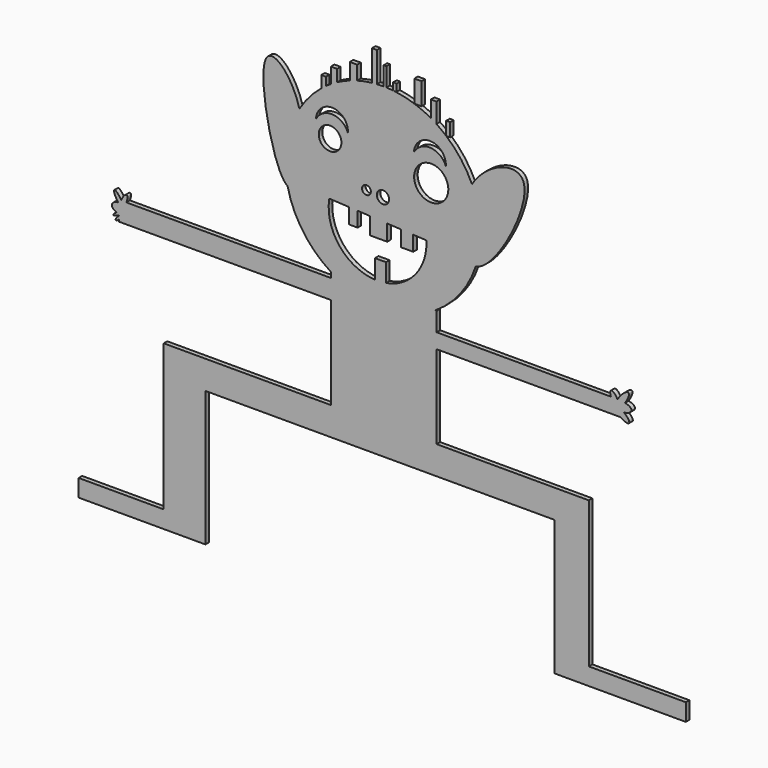
from build123d import *

# Parameters (mm, degrees)
F0_R     = 25.22024081
F0_R_2   = 64.9297534819
F0_R_3   = 35.2626258189
F0_R_4   = 98.1338947202
F0_W     = 718.9698568713
F0_H     = 162.5799824413
F0_W_2   = 675.9906542173
F0_W_3   = 239.5916902773
F0_W_4   = 196.807428836
F0_H_2   = 675.9906852519
F0_H_3   = 99.3998650116
F0_W_5   = 487.7401335319
F0_W_6   = 556.1947780439
F1_DEPTH = 25.4
F0_W_7   = 20.363200712
F0_H_4   = 41.5725999435
F0_W_8   = 42.2370003612
F0_H_5   = 126.7080586466
F0_W_9   = 22.9711555591
F0_H_6   = 76.650179515


with BuildPart() as f1:
    # F0 (on Front) → F1 (new body)
    with BuildSketch(Plane.XZ):
        with BuildLine():
            ThreePointArc((430.4256800329, 1909.5991843785), (451.3898625277, 1995.9795026506), (458.4369827022, 2084.5875972567))
            ThreePointArc((458.4369827022, 2084.5875972567), (445.7884721768, 2202.9987936454), (408.4137160484, 2316.0665779744))
            add(Edge.make_bspline(
                [(430.4256800329, 1909.5991843785), (337.6444111974, 1901.9020594196), (313.6273281249, 2159.4088523347), (408.4137160484, 2316.0665779744)],
                knots=[0.6750465292, 0.6750465292, 0.6750465292, 0.6750465292, 1, 1, 1, 1], degree=3))
        make_face()
        with BuildLine():
            ThreePointArc((408.4137160484, 2316.0665779744), (445.7884721768, 2202.9987936454), (458.4369827022, 2084.5875972567))
            ThreePointArc((458.4369827022, 2084.5875972567), (451.3898625277, 1995.9795026506), (430.4256800329, 1909.5991843785))
            add(Edge.make_bspline(
                [(408.4137160484, 2316.0665779744), (491.7249949642, 2453.7588749487), (905.5507371265, 2595.0564403031), (541.6172104012, 1918.8236228278), (430.4256800329, 1909.5991843785)],
                knots=[0, 0, 0, 0, 0.2856136818, 0.6750465292, 0.6750465292, 0.6750465292, 0.6750465292], degree=3))
        make_face()
        with BuildLine():
            add(Edge.make_bspline(
                [(430.4256800329, 1909.5991843785), (337.6444111974, 1901.9020594196), (313.6273281249, 2159.4088523347), (408.4137160484, 2316.0665779744)],
                knots=[0.6750465292, 0.6750465292, 0.6750465292, 0.6750465292, 1, 1, 1, 1], degree=3))
            ThreePointArc((408.4137160484, 2316.0665779744), (345.2916944926, 2422.3061698473), (260.4264262109, 2512.1344879106))
            ThreePointArc((260.4264262109, 2512.1344879106), (233.1697986481, 2533.82993129), (204.6182171506, 2553.7904724528))
            Line((204.6182171506, 2553.7904724528), (204.6182171506, 2552.4249535164))
            Line((204.6182171506, 2552.4249535164), (172.2985335228, 2552.4249535164))
            Line((172.2985335228, 2552.4249535164), (172.2985335228, 2573.3985211503))
            ThreePointArc((172.2985335228, 2573.3985211503), (125.8983291088, 2596.6931854825), (77.5419851971, 2615.5951525632))
            ThreePointArc((77.5419851971, 2615.5951525632), (17.5084977636, 2632.2555176585), (-44.0029683651, 2642.1513204675))
            ThreePointArc((-44.0029683651, 2642.1513204675), (-63.0883017128, 2643.8125876796), (-82.2192543581, 2644.820758609))
            Line((-82.2192543581, 2644.820758609), (-82.2192543581, 2606.9645243803))
            Line((-82.2192543581, 2606.9645243803), (-98.3791116894, 2606.9645243803))
            Line((-98.3791116894, 2606.9645243803), (-98.3791116894, 2645.1625074731))
            ThreePointArc((-98.3791116894, 2645.1625074731), (-117.5779975113, 2644.9628733469), (-136.7587864287, 2644.1058977952))
            Line((-136.7587864287, 2644.1058977952), (-136.7587864287, 2641.6326134129))
            Line((-136.7587864287, 2641.6326134129), (-165.0736164975, 2641.6326134129))
            ThreePointArc((-165.0736164975, 2641.6326134129), (-207.7894850671, 2635.1317673601), (-249.8777877474, 2625.3603189231))
            Line((-249.8777877474, 2625.3603189231), (-249.8777877474, 2532.2251124557))
            Line((-249.8777877474, 2532.2251124557), (-292.2974229402, 2532.2251124557))
            Line((-292.2974229402, 2532.2251124557), (-292.2974229402, 2611.9419804363))
            ThreePointArc((-292.2974229402, 2611.9419804363), (-329.2292217989, 2597.1241913941), (-365.0167886894, 2579.7237691263))
            Line((-365.0167886894, 2579.7237691263), (-365.0167886894, 2516.0652396071))
            Line((-365.0167886894, 2516.0652396071), (-401.376471564, 2516.0652396071))
            Line((-401.376471564, 2516.0652396071), (-401.376471564, 2558.6364773259))
            ThreePointArc((-401.376471564, 2558.6364773259), (-415.6614964535, 2549.3126569736), (-429.6562180144, 2539.5585127012))
            Line((-429.6562180144, 2539.5585127012), (-429.6562180144, 2489.8054462282))
            Line((-429.6562180144, 2489.8054462282), (-455.9159803586, 2489.8054462282))
            Line((-455.9159803586, 2489.8054462282), (-455.9159803586, 2519.4536917679))
            ThreePointArc((-455.9159803586, 2519.4536917679), (-524.8608118035, 2452.7920830247), (-581.4345098454, 2375.3545175086))
            add(Edge.make_bspline(
                [(-649.7281822072, 1964.515695458), (-583.959381164, 1930.7588335611), (-530.8833730731, 2187.8653938505), (-581.4345098454, 2375.3545175086)],
                knots=[0.6696778985, 0.6696778985, 0.6696778985, 0.6696778985, 1, 1, 1, 1], degree=3))
            ThreePointArc((-649.7281822072, 1964.515695458), (-561.0790819625, 1762.6510879873), (-401.4451387737, 1610.5820677843))
            Line((-401.4451387737, 1610.5820677843), (197.1439096648, 1610.5820677843))
            ThreePointArc((197.1439096648, 1610.5820677843), (339.8392878184, 1739.7639025974), (430.4256800329, 1909.5991843785))
        make_face()
        with BuildLine():
            ThreePointArc((-148.1524683767, 1653.237166098), (-351.4219119124, 1757.1276335724), (-410.1595292996, 1977.7213510964))
            Line((-410.1595292996, 1977.7213510964), (-297.8907957684, 1971.7151906134))
            Line((-297.8907957684, 1971.7151906134), (-297.8907957684, 1883.7186000835))
            Line((-297.8907957684, 1883.7186000835), (-247.3743146358, 1883.7186000835))
            Line((-247.3743146358, 1883.7186000835), (-247.3743146358, 1969.0126564066))
            Line((-247.3743146358, 1969.0126564066), (-176.1103264689, 1965.2001706314))
            Line((-176.1103264689, 1965.2001706314), (-176.1103264689, 1867.6693347718))
            Line((-176.1103264689, 1867.6693347718), (-77.7108334344, 1867.6693347718))
            Line((-77.7108334344, 1867.6693347718), (-77.7108334344, 1959.9359877371))
            Line((-77.7108334344, 1959.9359877371), (0, 1955.7786081872))
            Line((0, 1955.7786081872), (0, 1865.3766180526))
            Line((0, 1865.3766180526), (71.3178791887, 1865.3766180526))
            Line((71.3178791887, 1865.3766180526), (71.3178791887, 1951.9632393463))
            Line((71.3178791887, 1951.9632393463), (146.9785938599, 1947.915537192))
            ThreePointArc((146.9785938599, 1947.915537192), (86.2913241715, 1758.6271545004), (-84.5890922134, 1657.0746074108))
            Line((-84.5890922134, 1657.0746074108), (-84.5890922134, 1762.2028760242))
            Line((-84.5890922134, 1762.2028760242), (-148.1524683767, 1762.2028760242))
            Line((-148.1524683767, 1762.2028760242), (-148.1524683767, 1653.237166098))
        make_face(mode=Mode.SUBTRACT)
        with Locations((-196.9338174986, 2090.0660841402)):
            Circle(F0_R, mode=Mode.SUBTRACT)
        with Locations((-405.5740337918, 2282.6570196044)):
            Circle(F0_R_2, mode=Mode.SUBTRACT)
        with BuildLine():
            ThreePointArc((-486.5942597389, 2354.7642230988), (-390.0763596826, 2442.0453926146), (-303.3040444597, 2345.0697622007))
            ThreePointArc((-303.3040444597, 2345.0697622007), (-391.8536683348, 2408.4423600268), (-486.5942597389, 2354.7642230988))
        make_face(mode=Mode.SUBTRACT)
        with Locations((-102.1506145545, 2084.5875972567)):
            Circle(F0_R_3, mode=Mode.SUBTRACT)
        with Locations((174.4916134584, 2245.9730555424)):
            Circle(F0_R_4, mode=Mode.SUBTRACT)
        with BuildLine():
            ThreePointArc((75.0362518785, 2369.0948433087), (171.5541519348, 2456.3760128245), (258.3264671578, 2359.4003824106))
            ThreePointArc((258.3264671578, 2359.4003824106), (169.7768432826, 2422.7729802367), (75.0362518785, 2369.0948433087))
        make_face(mode=Mode.SUBTRACT)
        with BuildLine():
            Line((205.8957745455, 1610.5820677843), (197.1439096648, 1610.5820677843))
            ThreePointArc((197.1439096648, 1610.5820677843), (-102.1506145544, 1524), (-401.4451387737, 1610.5820677843))
            Line((-401.4451387737, 1610.5820677843), (-401.4451387737, 1579.7338336314))
            Line((-401.4451387737, 1579.7338336314), (-401.4451387737, 1468.4949276781))
            Line((-401.4451387737, 1468.4949276781), (-401.4451387737, 937.9705327048))
            Line((-401.4451387737, 937.9705327048), (-401.4451387737, 775.3905502635))
            Line((-401.4451387737, 775.3905502635), (205.8957745455, 775.3905502635))
            Line((205.8957745455, 775.3905502635), (205.8957745455, 937.9705327048))
            Line((205.8957745455, 937.9705327048), (205.8957745455, 1417.1537891208))
            Line((205.8957745455, 1417.1537891208), (205.8957745455, 1502.7223120034))
            Line((205.8957745455, 1502.7223120034), (205.8957745455, 1610.5820677843))
        make_face()
        with BuildLine():
            ThreePointArc((-401.4451387737, 1610.5820677843), (-102.1506145544, 1524), (197.1439096648, 1610.5820677843))
            Line((197.1439096648, 1610.5820677843), (-401.4451387737, 1610.5820677843))
        make_face()
        with BuildLine():
            Line((204.6182171506, 2552.4249535164), (204.6182171506, 2553.7904724528))
            ThreePointArc((204.6182171506, 2553.7904724528), (188.6237032575, 2563.8670045955), (172.2985335228, 2573.3985211503))
            Line((172.2985335228, 2573.3985211503), (172.2985335228, 2552.4249535164))
            Line((172.2985335228, 2552.4249535164), (204.6182171506, 2552.4249535164))
        make_face()
        with BuildLine():
            ThreePointArc((172.2985335228, 2573.3985211503), (188.6237032575, 2563.8670045955), (204.6182171506, 2553.7904724528))
            Line((204.6182171506, 2553.7904724528), (204.6182171506, 2667.5640475624))
            Line((204.6182171506, 2667.5640475624), (172.2985335228, 2667.5640475624))
            Line((172.2985335228, 2667.5640475624), (172.2985335228, 2573.3985211503))
        make_face()
        with BuildLine():
            add(Edge.make_bspline(
                [(-581.4345098454, 2375.3545175086), (-622.297156562, 2526.9099980064), (-894.6052710051, 2792.9272091619), (-729.9007029104, 2005.6654908986), (-649.7281822072, 1964.515695458)],
                knots=[0, 0, 0, 0, 0.2670134877, 0.6696778985, 0.6696778985, 0.6696778985, 0.6696778985], degree=3))
            ThreePointArc((-649.7281822072, 1964.515695458), (-655.1499368377, 2176.5125870709), (-581.4345098454, 2375.3545175086))
        make_face()
        with BuildLine():
            ThreePointArc((-581.4345098454, 2375.3545175086), (-655.1499368377, 2176.5125870709), (-649.7281822072, 1964.515695458))
            add(Edge.make_bspline(
                [(-649.7281822072, 1964.515695458), (-583.959381164, 1930.7588335611), (-530.8833730731, 2187.8653938505), (-581.4345098454, 2375.3545175086)],
                knots=[0.6696778985, 0.6696778985, 0.6696778985, 0.6696778985, 1, 1, 1, 1], degree=3))
        make_face()
        Polygon((-401.4451387737, 1468.4949276781), (-401.4451387737, 1579.7338336314), (-1574.2255633989, 1579.7338336314), (-1601.9737946635, 1579.7338336314), (-1604.8034244856, 1579.7338336314), (-1616.7120062929, 1579.7338336314), (-1616.7120062929, 1563.9612725524), (-1616.7120062929, 1558.1356935338), (-1616.7120062929, 1519.0132735809), (-1616.7120062929, 1509.7229429933), (-1616.7120062929, 1500.4326124056), (-1616.7120062929, 1498.1212648294), (-1616.7120062929, 1479.2060819724), (-1616.7120062929, 1468.4949276781), align=None)
        with BuildLine():
            Line((1206.0226577477, 1502.7223120034), (205.8957745455, 1502.7223120034))
            Line((205.8957745455, 1502.7223120034), (205.8957745455, 1417.1537891208))
            Line((205.8957745455, 1417.1537891208), (1260.5873070085, 1417.1537891208))
            Line((1260.5873070085, 1417.1537891208), (1266.9444093187, 1417.1537891208))
            Line((1266.9444093187, 1417.1537891208), (1266.9444093187, 1502.7223120034))
            Line((1266.9444093187, 1502.7223120034), (1243.6978244071, 1502.7223120034))
            add(Edge.make_bspline(
                [(1243.6978244071, 1502.7223120034), (1243.0963781352, 1501.7835188199), (1242.5094594622, 1500.8452975247)],
                knots=[1.7833055874, 1.7833055874, 1.7833055874, 1.8182121997, 1.8182121997, 1.8182121997], degree=2, weights=[1, 0.9998476949, 1]))
            add(Edge.make_bspline(
                [(1242.5094594622, 1500.8452975247), (1242.1188179881, 1501.7830068249), (1241.6971546455, 1502.7223120034)],
                knots=[4.4005560354, 4.4005560354, 4.4005560354, 4.4588566372, 4.4588566372, 4.4588566372], degree=2, weights=[1, 0.9995751601, 1]))
            Line((1241.6971546455, 1502.7223120034), (1206.0226577477, 1502.7223120034))
        make_face()
        with BuildLine():
            Line((-1601.9737946635, 1579.7338336314), (-1574.2255633989, 1579.7338336314))
            add(Edge.make_bspline(
                [(-1574.2255633989, 1579.7338336314), (-1559.0834928694, 1616.7001153747), (-1573.2675547935, 1618.0422626335), (-1587.4516167175, 1619.3844098922), (-1603.6236582872, 1582.5155877353)],
                knots=[4.8690161245, 4.8690161245, 4.8690161245, 6.4034971324, 6.4034971324, 7.9379781403, 7.9379781403, 7.9379781403], degree=2, weights=[1, 0.7198289162, 1, 0.7198289162, 1]))
            add(Edge.make_bspline(
                [(-1601.9737946635, 1579.7338336314), (-1602.7828186628, 1581.126300949), (-1603.6236582872, 1582.5155877353)],
                knots=[4.5467996095, 4.5467996095, 4.5467996095, 4.6144009071, 4.6144009071, 4.6144009071], degree=2, weights=[1, 0.9994288125, 1]))
        make_face()
        with BuildLine():
            add(Edge.make_bspline(
                [(1241.6971546455, 1502.7223120034), (1227.23610661, 1534.9360141017), (1209.3988581612, 1534.9360141017), (1191.5616097123, 1534.9360141017), (1206.0226577477, 1502.7223120034)],
                knots=[4.4588566372, 4.4588566372, 4.4588566372, 6.0296529639, 6.0296529639, 7.6004492907, 7.6004492907, 7.6004492907], degree=2, weights=[1, 0.7071067812, 1, 0.7071067812, 1]))
            Line((1206.0226577477, 1502.7223120034), (1241.6971546455, 1502.7223120034))
        make_face()
        with BuildLine():
            Line((-455.9159803586, 2586.7646833196), (-455.9159803586, 2519.4536917679))
            ThreePointArc((-455.9159803586, 2519.4536917679), (-442.9343940198, 2529.6997964282), (-429.6562180144, 2539.5585127012))
            Line((-429.6562180144, 2539.5585127012), (-429.6562180144, 2586.7646833196))
            Line((-429.6562180144, 2586.7646833196), (-455.9159803586, 2586.7646833196))
        make_face()
        with BuildLine():
            ThreePointArc((-429.6562180144, 2539.5585127012), (-442.9343940198, 2529.6997964282), (-455.9159803586, 2519.4536917679))
            Line((-455.9159803586, 2519.4536917679), (-455.9159803586, 2489.8054462282))
            Line((-455.9159803586, 2489.8054462282), (-429.6562180144, 2489.8054462282))
            Line((-429.6562180144, 2489.8054462282), (-429.6562180144, 2539.5585127012))
        make_face()
        with Locations((-760.9300672093, 856.6805414842)):
            Rectangle(F0_W, F0_H)
        with BuildLine():
            Line((-1604.8034244856, 1579.7338336314), (-1601.9737946635, 1579.7338336314))
            add(Edge.make_bspline(
                [(-1601.9737946635, 1579.7338336314), (-1602.7828186628, 1581.126300949), (-1603.6236582872, 1582.5155877353)],
                knots=[4.5467996095, 4.5467996095, 4.5467996095, 4.6144009071, 4.6144009071, 4.6144009071], degree=2, weights=[1, 0.9994288125, 1]))
            add(Edge.make_bspline(
                [(-1603.6236582872, 1582.5155877353), (-1604.2329435814, 1581.1265465892), (-1604.8034244856, 1579.7338336314)],
                knots=[1.6547928332, 1.6547928332, 1.6547928332, 1.7274234709, 1.7274234709, 1.7274234709], degree=2, weights=[1, 0.9993406713, 1]))
        make_face()
        with BuildLine():
            add(Edge.make_bspline(
                [(-1603.6236582872, 1582.5155877353), (-1604.2329435814, 1581.1265465892), (-1604.8034244856, 1579.7338336314)],
                knots=[1.6547928332, 1.6547928332, 1.6547928332, 1.7274234709, 1.7274234709, 1.7274234709], degree=2, weights=[1, 0.9993406713, 1]))
            add(Edge.make_bspline(
                [(-1603.6236582872, 1582.5155877353), (-1632.873023414, 1630.8431823197), (-1643.3609477132, 1619.8375669974), (-1653.8488720125, 1608.8319516752), (-1621.2243422194, 1564.0461221633)],
                knots=[4.6144009071, 4.6144009071, 4.6144009071, 6.3468069762, 6.3468069762, 8.0792130452, 8.0792130452, 8.0792130452], degree=2, weights=[1, 0.6477240226, 1, 0.6477240226, 1]))
            add(Edge.make_bspline(
                [(-1616.7120062929, 1563.9612725524), (-1618.9752737577, 1564.0891669462), (-1621.2243422194, 1564.0461221633)],
                knots=[4.7808416276, 4.7808416276, 4.7808416276, 4.8929152212, 4.8929152212, 4.8929152212], degree=2, weights=[1, 0.9984303495, 1]))
            Line((-1616.7120062929, 1563.9612725524), (-1616.7120062929, 1579.7338336314))
            Line((-1616.7120062929, 1579.7338336314), (-1604.8034244856, 1579.7338336314))
        make_face()
        with Locations((543.8911016541, 856.6805414842)):
            Rectangle(F0_W_2, F0_H)
        with BuildLine():
            Line((1266.9444093187, 1417.1537891208), (1260.5873070085, 1417.1537891208))
            add(Edge.make_bspline(
                [(1260.5873070085, 1417.1537891208), (1300.5362932255, 1389.1287171637), (1309.6456980894, 1402.9746111912), (1318.7551029533, 1416.8205052186), (1280.2988486319, 1447.1144638862)],
                knots=[4.8163796118, 4.8163796118, 4.8163796118, 6.3051504315, 6.3051504315, 7.7939212513, 7.7939212513, 7.7939212513], degree=2, weights=[1, 0.7355044383, 1, 0.7355044383, 1]))
            add(Edge.make_bspline(
                [(1280.2988486319, 1447.1144638862), (1457.0234176186, 1467.4187719595), (1286.5740065961, 1497.2639328928)],
                knots=[4.952807612, 4.952807612, 4.952807612, 7.4964157504, 7.4964157504, 7.4964157504], degree=2, weights=[1, 0.2945573237, 1]))
            add(Edge.make_bspline(
                [(1286.5740065961, 1497.2639328928), (1325.1235253677, 1553.5609442483), (1302.5378628227, 1556.4362261027), (1279.9522002777, 1559.3115079572), (1243.6978244071, 1502.7223120034)],
                knots=[4.8232350031, 4.8232350031, 4.8232350031, 6.4448629488, 6.4448629488, 8.0664908945, 8.0664908945, 8.0664908945], degree=2, weights=[1, 0.6889086545, 1, 0.6889086545, 1]))
            Line((1243.6978244071, 1502.7223120034), (1266.9444093187, 1502.7223120034))
            Line((1266.9444093187, 1502.7223120034), (1266.9444093187, 1417.1537891208))
        make_face()
        with BuildLine():
            Line((1243.6978244071, 1502.7223120034), (1241.6971546455, 1502.7223120034))
            add(Edge.make_bspline(
                [(1242.5094594622, 1500.8452975247), (1242.1188179881, 1501.7830068249), (1241.6971546455, 1502.7223120034)],
                knots=[4.4005560354, 4.4005560354, 4.4005560354, 4.4588566372, 4.4588566372, 4.4588566372], degree=2, weights=[1, 0.9995751601, 1]))
            add(Edge.make_bspline(
                [(1243.6978244071, 1502.7223120034), (1243.0963781352, 1501.7835188199), (1242.5094594622, 1500.8452975247)],
                knots=[1.7833055874, 1.7833055874, 1.7833055874, 1.8182121997, 1.8182121997, 1.8182121997], degree=2, weights=[1, 0.9998476949, 1]))
        make_face()
        with BuildLine():
            Line((-82.2192543581, 2606.9645243803), (-82.2192543581, 2644.820758609))
            ThreePointArc((-82.2192543581, 2644.820758609), (-90.2979512504, 2645.0498783878), (-98.3791116894, 2645.1625074731))
            Line((-98.3791116894, 2645.1625074731), (-98.3791116894, 2606.9645243803))
            Line((-98.3791116894, 2606.9645243803), (-82.2192543581, 2606.9645243803))
        make_face()
        with BuildLine():
            ThreePointArc((-98.3791116894, 2645.1625074731), (-90.2979512504, 2645.0498783878), (-82.2192543581, 2644.820758609))
            Line((-82.2192543581, 2644.820758609), (-82.2192543581, 2752.4031317401))
            Line((-82.2192543581, 2752.4031317401), (-98.3791116894, 2752.4031317401))
            Line((-98.3791116894, 2752.4031317401), (-98.3791116894, 2645.1625074731))
        make_face()
        with Locations((-1240.2108407836, 856.6805414842)):
            Rectangle(F0_W_3, F0_H)
        with BuildLine():
            add(Edge.make_bspline(
                [(-1616.7120062929, 1498.1212648294), (-1635.5857568432, 1482.132314303), (-1635.5857568432, 1472.6747228745), (-1635.5857568432, 1463.217131446), (-1616.7120062929, 1479.2060819724)],
                knots=[4.4500048298, 4.4500048298, 4.4500048298, 6.0208011566, 6.0208011566, 7.5915974834, 7.5915974834, 7.5915974834], degree=2, weights=[1, 0.7071067812, 1, 0.7071067812, 1]))
            Line((-1616.7120062929, 1479.2060819724), (-1616.7120062929, 1498.1212648294))
        make_face()
        with BuildLine():
            add(Edge.make_bspline(
                [(-1616.7120062929, 1563.9612725524), (-1618.9752737577, 1564.0891669462), (-1621.2243422194, 1564.0461221633)],
                knots=[4.7808416276, 4.7808416276, 4.7808416276, 4.8929152212, 4.8929152212, 4.8929152212], degree=2, weights=[1, 0.9984303495, 1]))
            add(Edge.make_bspline(
                [(-1621.2243422194, 1564.0461221633), (-1618.9829083107, 1560.9691589847), (-1616.7120062929, 1558.1356935338)],
                knots=[1.796027738, 1.796027738, 1.796027738, 1.9573011178, 1.9573011178, 1.9573011178], degree=2, weights=[1, 0.9967506234, 1]))
            Line((-1616.7120062929, 1558.1356935338), (-1616.7120062929, 1563.9612725524))
        make_face()
        with BuildLine():
            add(Edge.make_bspline(
                [(-1621.2243422194, 1564.0461221633), (-1618.9829083107, 1560.9691589847), (-1616.7120062929, 1558.1356935338)],
                knots=[1.796027738, 1.796027738, 1.796027738, 1.9573011178, 1.9573011178, 1.9573011178], degree=2, weights=[1, 0.9967506234, 1]))
            add(Edge.make_bspline(
                [(-1621.2243422194, 1564.0461221633), (-1653.5242185563, 1563.427936818), (-1656.8472652905, 1541.8826462887), (-1660.1703120248, 1520.3373557594), (-1629.2850392208, 1511.7838241417)],
                knots=[4.8929152212, 4.8929152212, 4.8929152212, 6.2492233595, 6.2492233595, 7.6055314978, 7.6055314978, 7.6055314978], degree=2, weights=[1, 0.7787321018, 1, 0.7787321018, 1]))
            add(Edge.make_bspline(
                [(-1616.7120062929, 1519.0132735809), (-1623.2658503137, 1515.6398980821), (-1629.2850392208, 1511.7838241417)],
                knots=[4.5874894474, 4.5874894474, 4.5874894474, 4.9942149685, 4.9942149685, 4.9942149685], degree=2, weights=[1, 0.9793929603, 1]))
            Line((-1616.7120062929, 1519.0132735809), (-1616.7120062929, 1558.1356935338))
        make_face()
        with Locations((980.2901431807, 856.6805414842)):
            Rectangle(F0_W_4, F0_H)
        with BuildLine():
            Line((-401.376471564, 2647.3642065017), (-401.376471564, 2558.6364773259))
            ThreePointArc((-401.376471564, 2558.6364773259), (-383.3943368629, 2569.5210183158), (-365.0167886894, 2579.7237691263))
            Line((-365.0167886894, 2579.7237691263), (-365.0167886894, 2647.3642065017))
            Line((-365.0167886894, 2647.3642065017), (-401.376471564, 2647.3642065017))
        make_face()
        with BuildLine():
            ThreePointArc((-365.0167886894, 2579.7237691263), (-383.3943368629, 2569.5210183158), (-401.376471564, 2558.6364773259))
            Line((-401.376471564, 2558.6364773259), (-401.376471564, 2516.0652396071))
            Line((-401.376471564, 2516.0652396071), (-365.0167886894, 2516.0652396071))
            Line((-365.0167886894, 2516.0652396071), (-365.0167886894, 2579.7237691263))
        make_face()
        with Locations((-1240.2108407836, 437.3952076376)):
            Rectangle(F0_W_3, F0_H_2)
        with BuildLine():
            add(Edge.make_bspline(
                [(-1616.7120062929, 1519.0132735809), (-1623.2658503137, 1515.6398980821), (-1629.2850392208, 1511.7838241417)],
                knots=[4.5874894474, 4.5874894474, 4.5874894474, 4.9942149685, 4.9942149685, 4.9942149685], degree=2, weights=[1, 0.9793929603, 1]))
            add(Edge.make_bspline(
                [(-1629.2850392208, 1511.7838241417), (-1623.1590372444, 1510.0872565923), (-1616.7120062929, 1509.7229429933)],
                knots=[1.3223461906, 1.3223461906, 1.3223461906, 1.639248974, 1.639248974, 1.639248974], degree=2, weights=[1, 0.987472821, 1]))
            Line((-1616.7120062929, 1509.7229429933), (-1616.7120062929, 1519.0132735809))
        make_face()
        with BuildLine():
            add(Edge.make_bspline(
                [(-1629.2850392208, 1511.7838241417), (-1623.1590372444, 1510.0872565923), (-1616.7120062929, 1509.7229429933)],
                knots=[1.3223461906, 1.3223461906, 1.3223461906, 1.639248974, 1.639248974, 1.639248974], degree=2, weights=[1, 0.987472821, 1]))
            add(Edge.make_bspline(
                [(-1629.2850392208, 1511.7838241417), (-1653.0691369319, 1496.5470138679), (-1647.8389330095, 1491.8250702853), (-1642.608729087, 1487.1031267028), (-1616.7120062929, 1500.4326124056)],
                knots=[4.9942149685, 4.9942149685, 4.9942149685, 6.3616485348, 6.3616485348, 7.729082101, 7.729082101, 7.729082101], degree=2, weights=[1, 0.775230266, 1, 0.775230266, 1]))
            Line((-1616.7120062929, 1500.4326124056), (-1616.7120062929, 1509.7229429933))
        make_face()
        with Locations((980.2901431807, 437.3952076376)):
            Rectangle(F0_W_4, F0_H_2)
        with BuildLine():
            Line((-136.7587864287, 2641.6326134129), (-136.7587864287, 2644.1058977952))
            ThreePointArc((-136.7587864287, 2644.1058977952), (-150.9318788929, 2643.0487350699), (-165.0736164975, 2641.6326134129))
            Line((-165.0736164975, 2641.6326134129), (-136.7587864287, 2641.6326134129))
        make_face()
        with BuildLine():
            ThreePointArc((-165.0736164975, 2641.6326134129), (-150.9318788929, 2643.0487350699), (-136.7587864287, 2644.1058977952))
            Line((-136.7587864287, 2644.1058977952), (-136.7587864287, 2817.0426231344))
            Line((-136.7587864287, 2817.0426231344), (-165.0736164975, 2817.0426231344))
            Line((-165.0736164975, 2817.0426231344), (-165.0736164975, 2641.6326134129))
        make_face()
        with Locations((-1240.2108407836, 49.6999325058)):
            Rectangle(F0_W_3, F0_H_3)
        with Locations((980.2901431807, 49.6999325058)):
            Rectangle(F0_W_4, F0_H_3)
        with BuildLine():
            Line((-292.2974229402, 2705.9434973005), (-292.2974229402, 2611.9419804363))
            ThreePointArc((-292.2974229402, 2611.9419804363), (-271.2207769394, 2619.0721474442), (-249.8777877474, 2625.3603189231))
            Line((-249.8777877474, 2625.3603189231), (-249.8777877474, 2705.9434973005))
            Line((-249.8777877474, 2705.9434973005), (-292.2974229402, 2705.9434973005))
        make_face()
        with BuildLine():
            ThreePointArc((-249.8777877474, 2625.3603189231), (-271.2207769394, 2619.0721474442), (-292.2974229402, 2611.9419804363))
            Line((-292.2974229402, 2611.9419804363), (-292.2974229402, 2532.2251124557))
            Line((-292.2974229402, 2532.2251124557), (-249.8777877474, 2532.2251124557))
            Line((-249.8777877474, 2532.2251124557), (-249.8777877474, 2625.3603189231))
        make_face()
        with Locations((-1603.8767526883, 49.6999325058)):
            Rectangle(F0_W_5, F0_H_3)
        with Locations((1356.7912466207, 49.6999325058)):
            Rectangle(F0_W_6, F0_H_3)
    extrude(amount=F1_DEPTH)


with BuildPart() as f1b:
    # F0 (on Front) → F1, piece 2 (new body)
    with BuildSketch(Plane.XZ):
        with Locations((-33.8213680091, 2662.9376204392)):
            Rectangle(F0_W_7, F0_H_4)
    extrude(amount=F1_DEPTH)


with BuildPart() as f1c:
    # F0 (on Front) → F1, piece 3 (new body)
    with BuildSketch(Plane.XZ):
        with Locations((98.6604853777, 2678.9491818864)):
            Rectangle(F0_W_8, F0_H_5)
    extrude(amount=F1_DEPTH)


with BuildPart() as f1d:
    # F0 (on Front) → F1, piece 4 (new body)
    with BuildSketch(Plane.XZ):
        with Locations((271.9120039905, 2550.4595776681)):
            Rectangle(F0_W_9, F0_H_6)
    extrude(amount=F1_DEPTH)


solid = Compound([f1.part, f1b.part, f1c.part, f1d.part])
